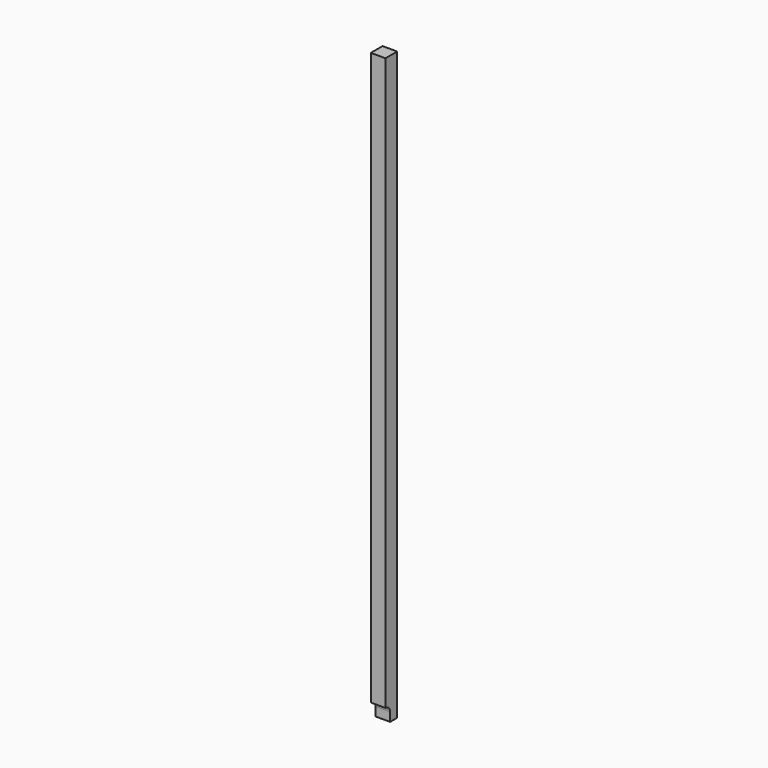
from build123d import *

# Parameters (mm, degrees)
F0_W     = 50
F0_H     = 50
F1_DEPTH = 2000
F3_DEPTH = 50.001


with BuildPart() as f1:
    # F0 (on Top) → F1 (new body)
    with BuildSketch(Plane.XY):
        with Locations((25, 25)):
            Rectangle(F0_W, F0_H)
    extrude(amount=F1_DEPTH)

    # F2 (on Right) → F3 (cut, through all)
    with BuildSketch(Plane.YZ):
        with BuildLine():
            Line((0, 50), (0, 0))
            Line((0, 0), (20, 0))
            Line((20, 0), (20, 30))
            ThreePointArc((20, 30), (14.142136, 44.142136), (0, 50))
        make_face()
    extrude(amount=F3_DEPTH, mode=Mode.SUBTRACT)


solid = f1.part
